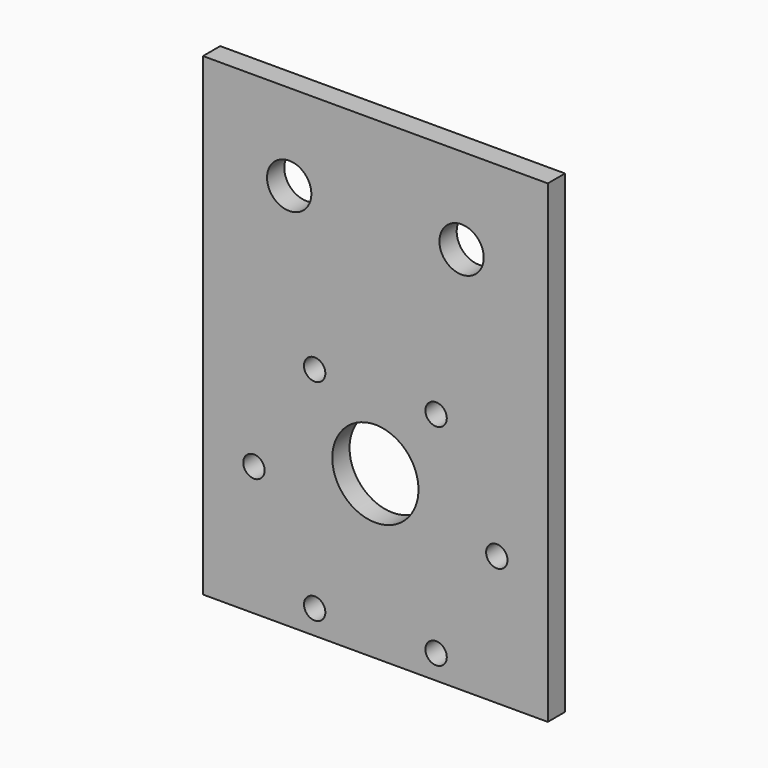
from build123d import *

# Parameters (mm, degrees)
F0_W     = 50.8
F0_H     = 69.85
F1_DEPTH = 3.175
F3_D     = 6.5278
F5_D     = 3.15
F7_D     = 12.7


with BuildPart() as f1:
    # F0 (on Front) → F1 (new body)
    with BuildSketch(Plane.XZ):
        Rectangle(F0_W, F0_H)
    extrude(amount=F1_DEPTH)

    # F3 (through all)
    with Locations(Plane.XZ.offset(3.175)):
        with Locations((-12.7, 22.225), (12.7, 22.225)):
            Hole(F3_D / 2)

    # F5 (through all)
    with Locations(Plane.XZ.offset(3.175)):
        with Locations((-8.9454650708, -0.381), (8.9454650708, -0.381), (17.8909301416, -15.875), (8.9454650708, -31.369), (-8.9454650708, -31.369), (-17.8909301416, -15.875)):
            Hole(F5_D / 2)

    # F7 (through all)
    with Locations(Plane.XZ.offset(3.175)):
        with Locations((0, -10.9855)):
            Hole(F7_D / 2)


solid = f1.part
